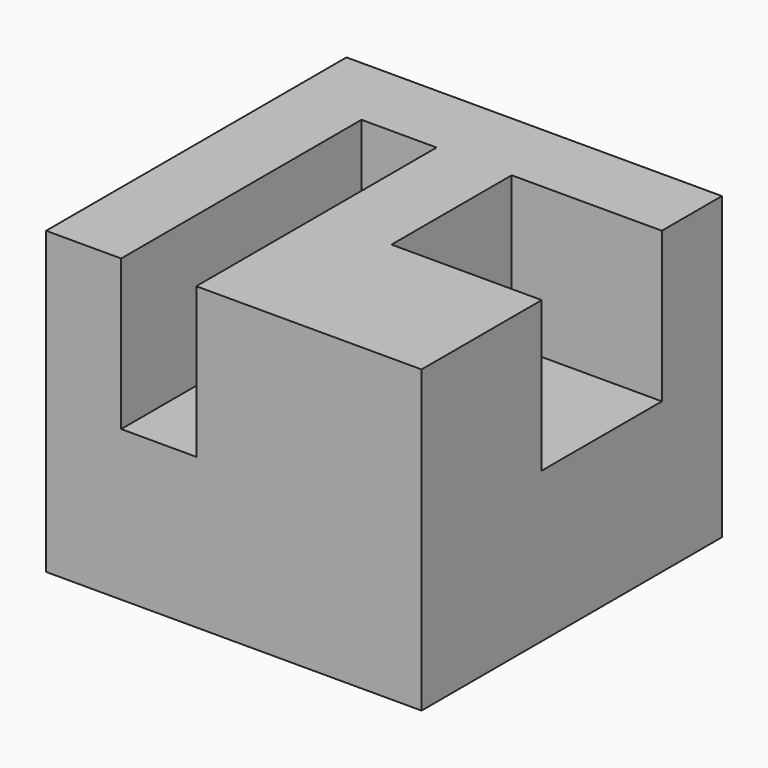
from build123d import *

# Parameters (mm, degrees)
F0_W     = 63.5
F0_H     = 50.8
F1_DEPTH = 63.5
F2_W     = 12.7
F2_H     = 25.4
F3_DEPTH = 50.8
F4_W     = 25.4
F4_H     = 25.4
F5_DEPTH = 25.4


with BuildPart() as f1:
    # F0 (on Front) → F1 (new body)
    with BuildSketch(Plane.XZ):
        with Locations((-8.157883, -31.627676)):
            Rectangle(F0_W, F0_H)
    extrude(amount=-F1_DEPTH)

    # F2 (on face) → F3 (cut)
    with BuildSketch(Plane.XZ):
        with Locations((-20.857883, -18.927676)):
            Rectangle(F2_W, F2_H)
    extrude(amount=-F3_DEPTH, mode=Mode.SUBTRACT)

    # F4 (on face) → F5 (cut)
    with BuildSketch(Plane.YZ.offset(23.592117)):
        with Locations((38.1, -18.927676)):
            Rectangle(F4_W, F4_H)
    extrude(amount=-F5_DEPTH, mode=Mode.SUBTRACT)


solid = f1.part
